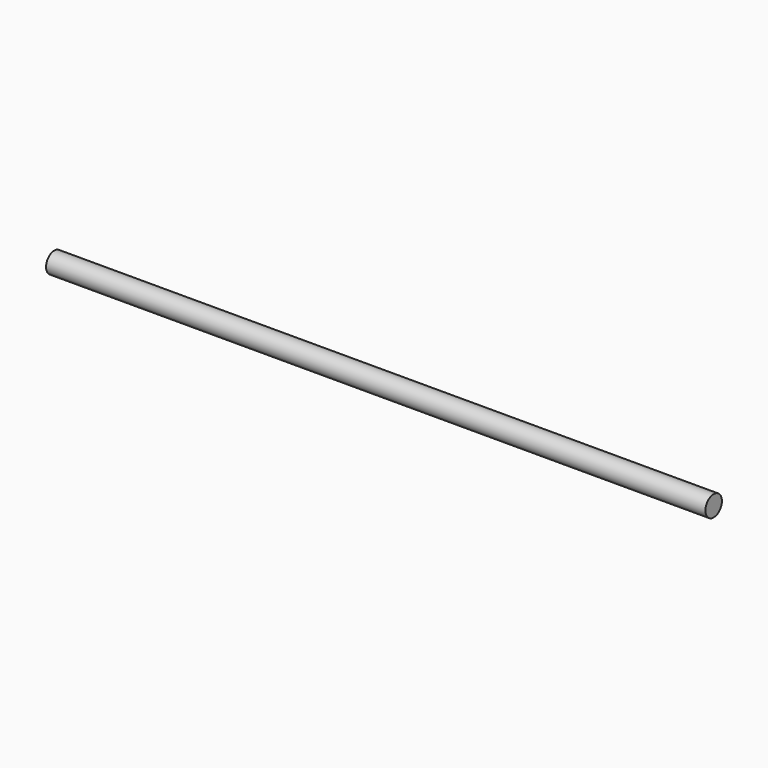
from build123d import *

# Parameters (mm, degrees)
F0_R          = 1.5875
F1_DEPTH      = 88.9
F1_DEPTH_BACK = 12.7


with BuildPart() as f1:
    # F0 (on Right) → F1 (new body, two sides)
    with BuildSketch(Plane.YZ) as f1_sk:
        with Locations((49.486056, 0)):
            Circle(F0_R)
    extrude(amount=F1_DEPTH)
    extrude(f1_sk.sketch, amount=-F1_DEPTH_BACK)


solid = f1.part
